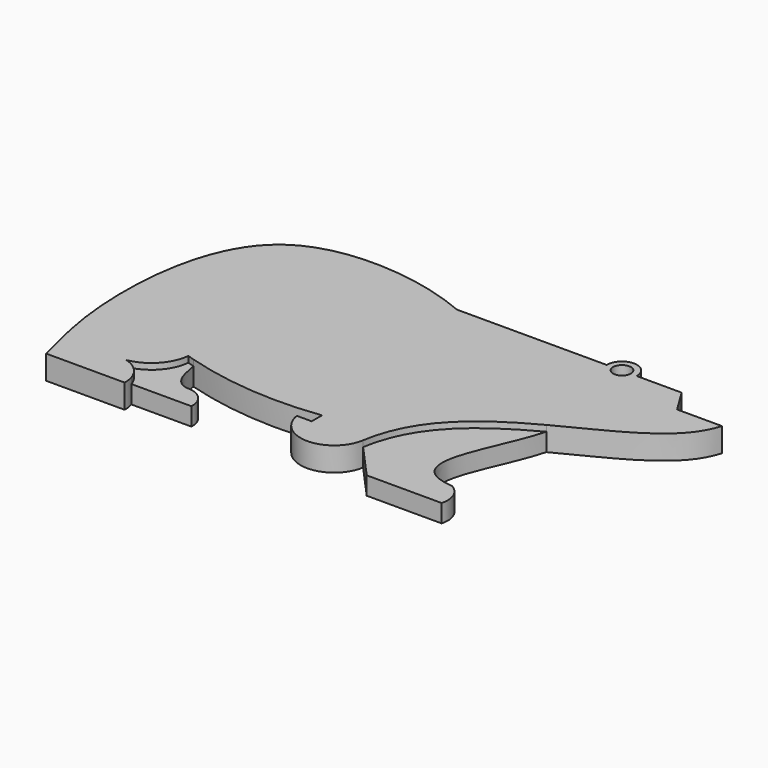
from build123d import *

# Parameters (mm, degrees)
F0_R     = 1.4862523745
F1_DEPTH = 4
F2_DEPTH = 3
F3_DEPTH = 3


with BuildPart() as f1:
    # F0 (on Top) → F1 (new body)
    with BuildSketch(Plane.XY):
        with BuildLine():
            Line((-10.1671746484, 3.7551838017), (-35.1671746484, 3.7551838017))
            add(Edge.make_bspline(
                [(-35.1671746484, 3.7551838017), (-43.7736152968, 7.4979759796), (-70.2851257062, 10.9990665801), (-73.4029060945, -23.2441431133), (-70.7099200787, -33.4466943679), (-69.2152544823, -39.3719944128)],
                knots=[0, 0, 0, 0, 0.3661307892, 0.7164925517, 1, 1, 1, 1], degree=3))
            Line((-69.2152544823, -39.3719944128), (-56.1078186444, -39.3719944128))
            ThreePointArc((-56.1078186444, -39.3719944128), (-56.1569349649, -38.4988373447), (-56.3534555565, -37.6466663903))
            ThreePointArc((-56.3534555565, -37.6466663903), (-57.6917439524, -35.5108484831), (-59.884887178, -34.2687306321))
            ThreePointArc((-59.884887178, -34.2687306321), (-56.1078186444, -32.2211528946), (-54.3214860669, -28.313744902))
            ThreePointArc((-54.3214860669, -28.313744902), (-53.7595727922, -28.491635387), (-53.1957958202, -28.6635280246))
            ThreePointArc((-53.1957958202, -28.6635280246), (-41.8201040172, -30.8016322472), (-30.2485204599, -30.5253938728))
            Line((-30.2485204599, -30.5253938728), (-30.2485204599, -32.681615501))
            Line((-30.2485204599, -32.681615501), (-32.7368205489, -32.681615501))
            ThreePointArc((-32.7368205489, -32.681615501), (-27.2018837, -37.3986096779), (-21.6669468511, -32.681615501))
            add(Edge.make_bspline(
                [(-5.7394118345, -14.3777765672), (-13.0707943254, -18.2833237753), (-20.1352904501, -23.1439779435), (-21.6669468511, -32.681615501)],
                knots=[24.392941426, 24.392941426, 24.392941426, 24.392941426, 46.9272638126, 46.9272638126, 46.9272638126, 46.9272638126], degree=3))
            add(Edge.make_bspline(
                [(12.3276051616, -0.3313678606), (10.4454575301, -7.0415850589), (2.196659222, -10.1501018829), (-5.7394118345, -14.3777765672)],
                knots=[0, 0, 0, 0, 24.392941426, 24.392941426, 24.392941426, 24.392941426], degree=3))
            Line((12.3276051616, -0.3313678606), (4.8488824078, -0.3313678606))
            Line((4.8488824078, -0.3313678606), (2.3340833525, 3.7551838017))
            Line((2.3340833525, 3.7551838017), (-5.1671746484, 3.7551838017))
            ThreePointArc((-5.1671746484, 3.7551838017), (-7.6671746484, 6.3174152001), (-10.1671746484, 3.7551838017))
        make_face()
        with Locations((-7.6671746484, 3.8166594629)):
            Circle(F0_R, mode=Mode.SUBTRACT)
    extrude(amount=F1_DEPTH)

    # F0 (on Top) → F2 (join)
    with BuildSketch(Plane.XY):
        with BuildLine():
            add(Edge.make_bspline(
                [(-5.7394118345, -34.010379664), (-16.0396672151, -33.1520262131), (-8.0283559224, -22.8517708325), (-5.7394118345, -14.3777765672)],
                knots=[0, 0, 0, 0, 19.6326030967, 19.6326030967, 19.6326030967, 19.6326030967], degree=3))
            add(Edge.make_bspline(
                [(-5.7394118345, -14.3777765672), (-13.0707943254, -18.2833237753), (-20.1352904501, -23.1439779435), (-21.6669468511, -32.681615501)],
                knots=[24.392941426, 24.392941426, 24.392941426, 24.392941426, 46.9272638126, 46.9272638126, 46.9272638126, 46.9272638126], degree=3))
            Line((-21.6669468511, -32.681615501), (-16.3262384489, -38.6046262244))
            Line((-16.3262384489, -38.6046262244), (-3.8262384489, -38.6046262244))
            ThreePointArc((-3.8262384489, -38.6046262244), (-3.9894854664, -35.9771340072), (-5.7394118345, -34.010379664))
        make_face()
    extrude(amount=F2_DEPTH)

    # F0 (on Top) → F3 (join)
    with BuildSketch(Plane.XY):
        with BuildLine():
            ThreePointArc((-59.884887178, -34.2687306321), (-57.6917439524, -35.5108484831), (-56.3534555565, -37.6466663903))
            Line((-56.3534555565, -37.6466663903), (-46.3534555565, -37.6466663903))
            ThreePointArc((-46.3534555565, -37.6466663903), (-47.2258595313, -35.1306124978), (-49.6429964265, -34.0129966804))
            add(Edge.make_bspline(
                [(-53.1957958202, -28.6635280246), (-52.7903358749, -30.7805855715), (-52.4500864855, -33.927934333), (-49.6429964265, -34.0129966804)],
                knots=[0, 0, 0, 0, 6.4217753333, 6.4217753333, 6.4217753333, 6.4217753333], degree=3))
            ThreePointArc((-53.1957958202, -28.6635280246), (-53.7595727922, -28.491635387), (-54.3214860669, -28.313744902))
            ThreePointArc((-54.3214860669, -28.313744902), (-56.1078186444, -32.2211528946), (-59.884887178, -34.2687306321))
        make_face()
    extrude(amount=F3_DEPTH)


solid = f1.part
